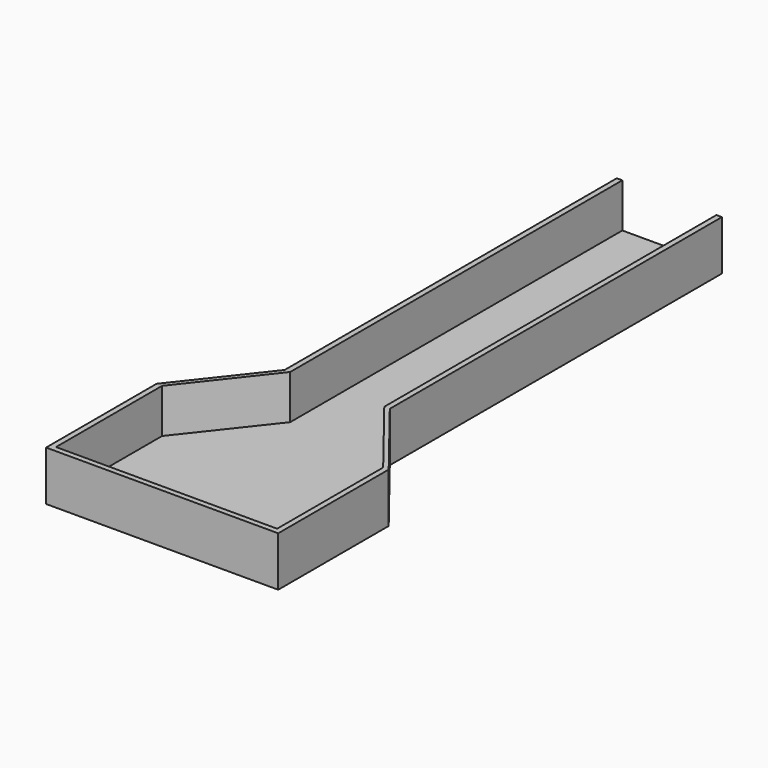
from build123d import *

# Parameters (mm, degrees)
F1_DEPTH = 36
F2_DEPTH = 4


with BuildPart() as f1:
    # F0 (on Top) → F1 (new body)
    with BuildSketch(Plane.XY):
        Polygon((-52.875005, 72.874999), (-52.875005, -27.125001), (115.249995, -27.125001), (115.249995, 72.875214), (69.249995, 131.381214), (69.249995, 432.04766), (65.249995, 432.04766), (65.249995, 131.381214), (111.249995, 72.875214), (111.249995, -23.125001), (-48.875005, -23.125001), (-48.875005, 72.874999), (-2.875005, 131.381214), (-2.875005, 432.04766), (-6.875005, 432.04766), (-6.875005, 131.381214), align=None)
    extrude(amount=F1_DEPTH)

    # F0 (on Top) → F2 (join)
    with BuildSketch(Plane.XY):
        Polygon((65.249995, 432.04766), (-2.875005, 432.04766), (-2.875005, 131.381214), (-48.875005, 72.874999), (-48.875005, -23.125001), (111.249995, -23.125001), (111.249995, 72.875214), (65.249995, 131.381214), align=None)
    extrude(amount=F2_DEPTH)


solid = f1.part
